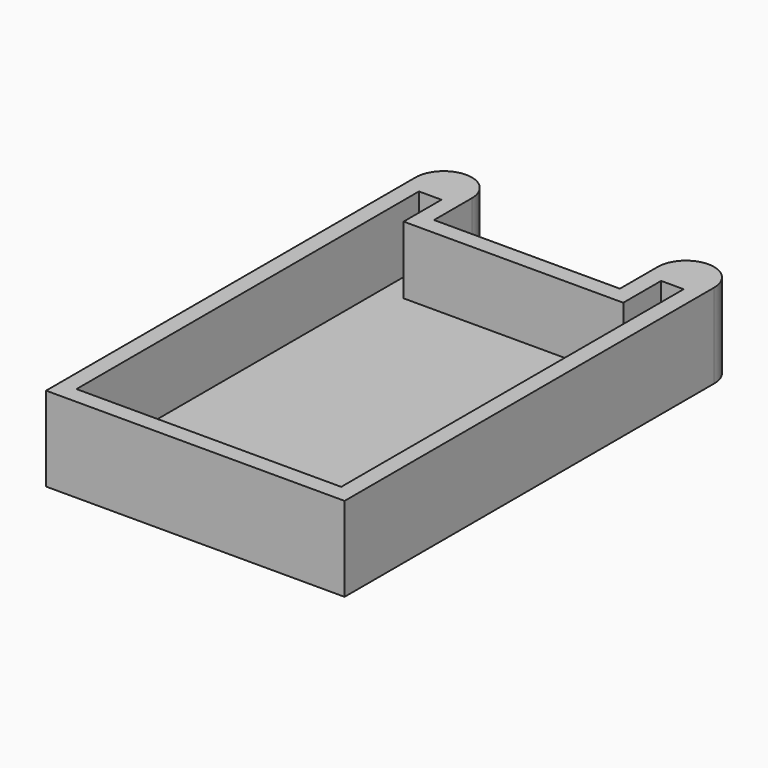
from build123d import *

# Parameters (mm, degrees)
F1_DEPTH = 1.5
F2_DEPTH = 7.5


with BuildPart() as f1:
    # F0 (on Top) → F1 (new body)
    with BuildSketch(Plane.XY):
        Polygon((9.75, 18.4), (9.75, 16.9), (-9.75, 16.9), (-9.75, 18.4), (-9.75, 21.1), (-11.75, 21.1), (-11.75, 18.4), (-11.75, 16.9), (-11.75, -16.9), (11.75, -16.9), (11.75, 16.9), (11.75, 18.4), (11.75, 21.1), (9.75, 21.1), align=None)
    extrude(amount=F1_DEPTH)

    # F0 (on Top) → F2 (join)
    with BuildSketch(Plane.XY):
        Polygon((13.25, -18.4), (13.25, 18.4), (13.25, 22.6), (8.25, 22.6), (8.25, 18.4), (-8.25, 18.4), (-8.25, 22.6), (-13.25, 22.6), (-13.25, 18.4), (-13.25, -18.4), align=None)
        Polygon((-9.75, 16.9), (9.75, 16.9), (9.75, 18.4), (9.75, 21.1), (11.75, 21.1), (11.75, 18.4), (11.75, 16.9), (11.75, -16.9), (-11.75, -16.9), (-11.75, 16.9), (-11.75, 18.4), (-11.75, 21.1), (-9.75, 21.1), (-9.75, 18.4), align=None, mode=Mode.SUBTRACT)
        with BuildLine():
            Line((8.25, 22.6), (13.25, 22.6))
            ThreePointArc((13.25, 22.6), (10.75, 25.1), (8.25, 22.6))
        make_face()
        with BuildLine():
            ThreePointArc((-8.25, 22.6), (-10.75, 25.1), (-13.25, 22.6))
            Line((-13.25, 22.6), (-8.25, 22.6))
        make_face()
    extrude(amount=F2_DEPTH)


solid = f1.part
